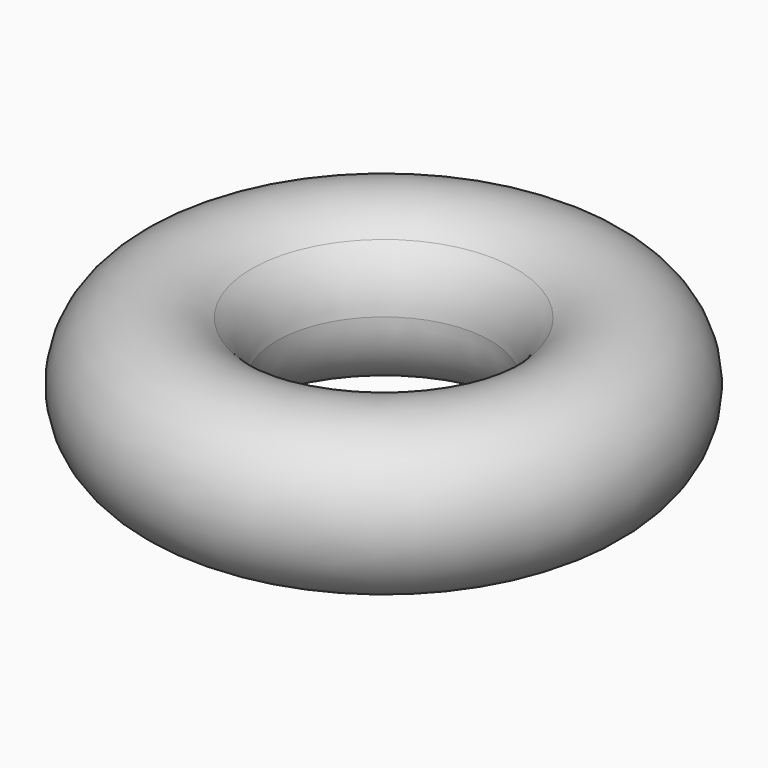
from build123d import *


with BuildPart() as f1:
    # F0 (on Front) → F1 (revolve)
    with BuildSketch(Plane.XZ):
        with BuildLine():
            ThreePointArc((65.136157, 14.461215), (58.489449, 41.323236), (42.043801, 63.578293))
            ThreePointArc((42.043801, 63.578293), (-69.591788, -18.894057), (65.136157, 14.461215))
        make_face()
        with BuildLine():
            ThreePointArc((24.083078, -14.495867), (-37.548239, 9.496218), (28.115077, 17.393578))
            ThreePointArc((28.115077, 17.393578), (30.062265, 0.947763), (24.083078, -14.495867))
        make_face(mode=Mode.SUBTRACT)
    revolve(axis=Axis((160.75027, 0, 2.65924), (0, 0, -1)))


solid = f1.part
